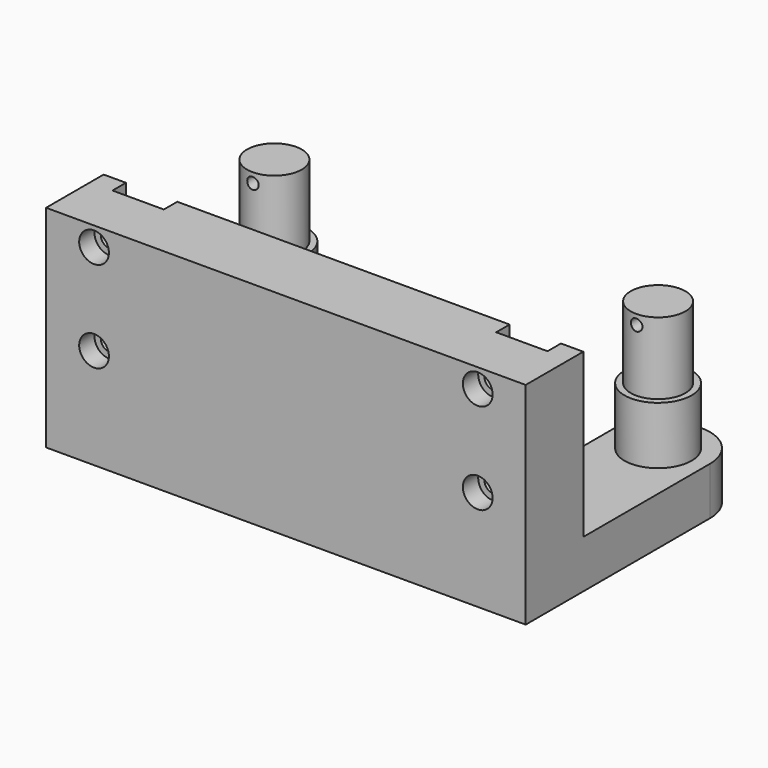
from build123d import *

# Parameters (mm, degrees)
PAD_DEPTH       = 10
SKETCH001_R     = 7
PAD001_DEPTH    = 12
SKETCH002_R     = 5.7
PAD002_DEPTH    = 15
PAD003_DEPTH    = 34
SKETCH004_R     = 1.8
POCKET_DEPTH    = 11.5
SKETCH005_R     = 1.2
POCKET001_DEPTH = 18
SKETCH006_R     = 3.1
POCKET002_DEPTH = 4
CHAMFER_SIZE    = 12
FILLET_R        = 9


with BuildPart() as part:
    # Sketch → Pad (new body)
    with BuildSketch(Plane.XY):
        Polygon((-50, 0), (50, 0), (50, 57), (30, 57), (30, 25), (-30, 25), (-30, 57), (-50, 57), align=None)
    extrude(amount=PAD_DEPTH)

    # Sketch001 (on Face10 of Pad) → Pad001 (join)
    with BuildSketch(Plane.XY.offset(10)):
        with Locations((-40, 47)):
            Circle(SKETCH001_R)
        with Locations((40, 47)):
            Circle(SKETCH001_R)
    extrude(amount=PAD001_DEPTH)

    # Sketch002 (on Face14 of Pad001) → Pad002 (join)
    with BuildSketch(Plane.XY.offset(22)):
        with Locations((-40, 47)):
            Circle(SKETCH002_R)
        with Locations((40, 47)):
            Circle(SKETCH002_R)
    extrude(amount=PAD002_DEPTH)

    # Sketch003 (on Face5 of Pad002) → Pad003 (join)
    with BuildSketch(Plane.XY.offset(10)):
        Polygon((-50, 15), (-45.35, 15), (-45.35, 11.5), (-34.65, 11.5), (-34.65, 15), (34.65, 15), (34.65, 11.5), (45.35, 11.5), (45.35, 15), (50, 15), (50, 0), (-50, 0), align=None)
    extrude(amount=PAD003_DEPTH)

    # Sketch004 (on Face17 of Pad003) → Pocket (cut)
    with BuildSketch(Plane(origin=(0, 11.5, 0), x_dir=(-1, 0, 0), z_dir=(0, 1, 0))):
        with Locations((-40, 40)):
            Circle(SKETCH004_R)
        with Locations((-40, 21)):
            Circle(SKETCH004_R)
        with Locations((40, 40)):
            Circle(SKETCH004_R)
        with Locations((40, 21)):
            Circle(SKETCH004_R)
    extrude(amount=-POCKET_DEPTH, mode=Mode.SUBTRACT)

    # Sketch005 (on Face4 of Pocket) → Pocket001 (cut)
    with BuildSketch(Plane(origin=(0, 57, 0), x_dir=(-1, 0, 0), z_dir=(0, 1, 0))):
        with Locations((-40, 34.96648)):
            Circle(SKETCH005_R)
        with Locations((40, 34.96648)):
            Circle(SKETCH005_R)
    extrude(amount=-POCKET001_DEPTH, mode=Mode.SUBTRACT)

    # Sketch006 (on Face10 of Pocket001) → Pocket002 (cut)
    with BuildSketch(Plane.XZ):
        with Locations((-40, 40)):
            Circle(SKETCH006_R)
        with Locations((40, 40)):
            Circle(SKETCH006_R)
        with Locations((40, 21)):
            Circle(SKETCH006_R)
        with Locations((-40, 21)):
            Circle(SKETCH006_R)
    extrude(amount=-POCKET002_DEPTH, mode=Mode.SUBTRACT)

    # Chamfer
    chamfer_edges = [part.edges().sort_by_distance(p)[0] for p in [
        (-30, 25, 5),
        (30, 25, 5),
    ]]
    chamfer(chamfer_edges, length=CHAMFER_SIZE)

    # Fillet
    fillet_edges = [part.edges().sort_by_distance(p)[0] for p in [
        (-50, 57, 5),
        (-30, 57, 5),
        (30, 57, 5),
        (50, 57, 5),
    ]]
    fillet(fillet_edges, radius=FILLET_R)


solid = part.part
